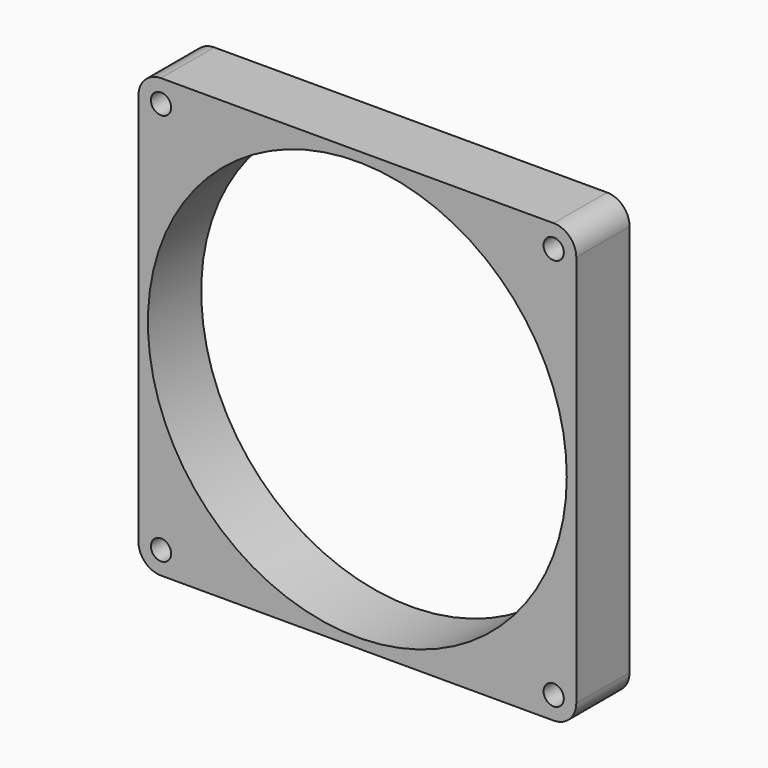
from build123d import *

# Parameters (mm, degrees)
F0_W     = 92
F0_H     = 92
F0_R     = 2.125
F0_R_2   = 44
F1_DEPTH = 7
F2_R     = 4.75


with BuildPart() as f1:
    # F0 (on Front) → F1 (new body, symmetric)
    with BuildSketch(Plane.XZ):
        Rectangle(F0_W, F0_H)
        with Locations((-41.25, -41.25)):
            Circle(F0_R, mode=Mode.SUBTRACT)
        with Locations((41.25, -41.25)):
            Circle(F0_R, mode=Mode.SUBTRACT)
        with Locations((-41.25, 41.25)):
            Circle(F0_R, mode=Mode.SUBTRACT)
        Circle(F0_R_2, mode=Mode.SUBTRACT)
        with Locations((41.25, 41.25)):
            Circle(F0_R, mode=Mode.SUBTRACT)
    extrude(amount=F1_DEPTH, both=True)

    # F2
    f2_edges = [f1.edges().sort_by_distance(p)[0] for p in [
        (-46, 0, 46),
        (46, 0, 46),
        (46, 0, -46),
        (-46, 0, -46),
    ]]
    fillet(f2_edges, radius=F2_R)


solid = f1.part
